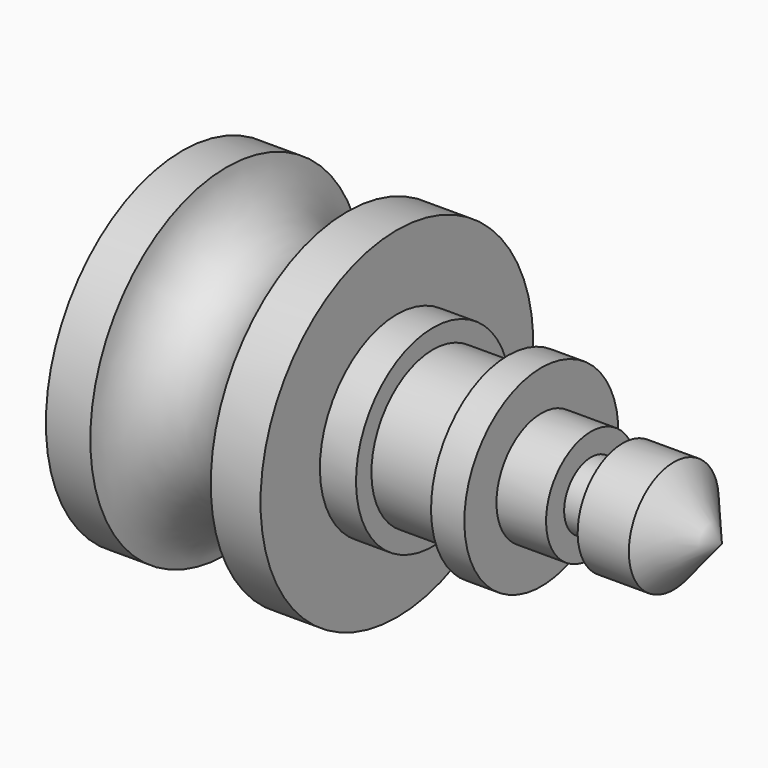
from build123d import *

# Parameters (mm, degrees)
F2_T     = -1.5
F4_DEPTH = 2
F5_COUNT = 8


with BuildPart() as f1:
    # F0 (on Front) → F1 (revolve)
    with BuildSketch(Plane.XZ):
        with BuildLine():
            Line((4.1495901532, 15.9270484), (0, 15.9270484))
            Line((0, 15.9270484), (0, 0))
            Line((0, 0), (50.4044294357, 0))
            Line((50.4044294357, 0), (45.9073781967, 5.2465572953))
            Line((45.9073781967, 5.2465572953), (41.1270521581, 5.2465572953))
            Line((41.1270521581, 5.2465572953), (41.1270521581, 3.1352459919))
            Line((41.1270521581, 3.1352459919), (38.1762310863, 3.1352459919))
            Line((38.1762310863, 3.1352459919), (38.1762310863, 5.2465572953))
            Line((38.1762310863, 5.2465572953), (33.5404910147, 5.2465572953))
            Line((33.5404910147, 5.2465572953), (33.5404910147, 8.9940987527))
            Line((33.5404910147, 8.9940987527), (30.4303281009, 8.9940987527))
            Line((30.4303281009, 8.9940987527), (30.4303281009, 7.1926233359))
            Line((30.4303281009, 7.1926233359), (23.4221331775, 7.1926233359))
            Line((23.4221331775, 7.1926233359), (23.4221331775, 8.9940987527))
            Line((23.4221331775, 8.9940987527), (20.0493428856, 8.9940987527))
            Line((20.0493428856, 8.9940987527), (20.0493428856, 15.9270484))
            Line((20.0493428856, 15.9270484), (15.3995910659, 15.9270484))
            ThreePointArc((15.3995910659, 15.9270484), (9.7745906096, 10.8803959146), (4.1495901532, 15.9270484))
        make_face()
    revolve(axis=Axis((25.2022147179, 0, 0), (-1, 0, 0)))

    # F2
    f2_openings = [f1.faces().sort_by_distance(p)[0] for p in [
        (0, 0, 0),
    ]]
    offset(amount=F2_T, openings=f2_openings, kind=Kind.INTERSECTION)


with BuildPart() as f4:
    # F3 (on face) → F4 (new body)
    with BuildSketch(Plane(origin=(0, 0, 0), x_dir=(0, -1, 0), z_dir=(-1, 0, 0))):
        with BuildLine():
            ThreePointArc((-8.1318857444, 11.9168854898), (-5.7238658852, 11.1431967548), (-4.9501771501, 13.551216614))
            ThreePointArc((-4.9501771501, 13.551216614), (-6.5918777257, 12.8330383615), (-8.1318857444, 11.9168854898))
        make_face()
    extrude(amount=-F4_DEPTH)


with BuildPart() as f5_1:
    # F5: instance of F4
    add(f4.part.rotate(Axis((0, 0, 0), (-1, 0, 0)), 1 * 360 / F5_COUNT))


with BuildPart() as f5_2:
    # F5: instance of F4
    add(f4.part.rotate(Axis((0, 0, 0), (-1, 0, 0)), 2 * 360 / F5_COUNT))


with BuildPart() as f5_3:
    # F5: instance of F4
    add(f4.part.rotate(Axis((0, 0, 0), (-1, 0, 0)), 3 * 360 / F5_COUNT))


with BuildPart() as f5_4:
    # F5: instance of F4
    add(f4.part.rotate(Axis((0, 0, 0), (-1, 0, 0)), 4 * 360 / F5_COUNT))


with BuildPart() as f5_5:
    # F5: instance of F4
    add(f4.part.rotate(Axis((0, 0, 0), (-1, 0, 0)), 5 * 360 / F5_COUNT))


with BuildPart() as f5_6:
    # F5: instance of F4
    add(f4.part.rotate(Axis((0, 0, 0), (-1, 0, 0)), 6 * 360 / F5_COUNT))


with BuildPart() as f5_7:
    # F5: instance of F4
    add(f4.part.rotate(Axis((0, 0, 0), (-1, 0, 0)), 7 * 360 / F5_COUNT))


solid = Compound([f1.part, f4.part, f5_1.part, f5_2.part, f5_3.part, f5_4.part, f5_5.part, f5_6.part, f5_7.part])
